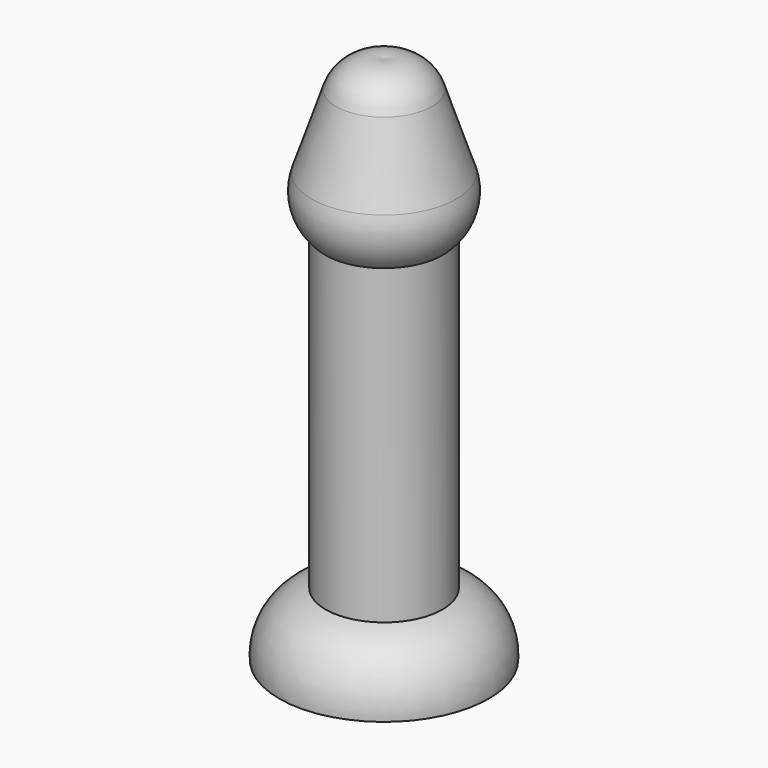
from build123d import *


with BuildPart() as f1:
    # F0 (on Front) → F1 (revolve)
    with BuildSketch(Plane.XZ):
        with BuildLine():
            ThreePointArc((0, 57.952297), (-5.888265, 57.12294), (-9.682227, 52.544146))
            Line((-9.682227, 52.544146), (-14.649221, 37.678745))
            ThreePointArc((-14.649221, 37.678745), (-14.858275, 31.806376), (-11.846326, 26.760924))
            Line((-11.846326, 26.760924), (-11.846326, -36.389097))
            ThreePointArc((-11.846326, -36.389097), (-18.901418, -41.088241), (-21.21596, -49.242944))
            Line((-21.21596, -49.242944), (0, -49.242944))
            Line((0, -49.242944), (0, 57.952297))
        make_face()
    revolve(axis=Axis((0, 0, 4.354677), (0, 0, 1)))


solid = f1.part
